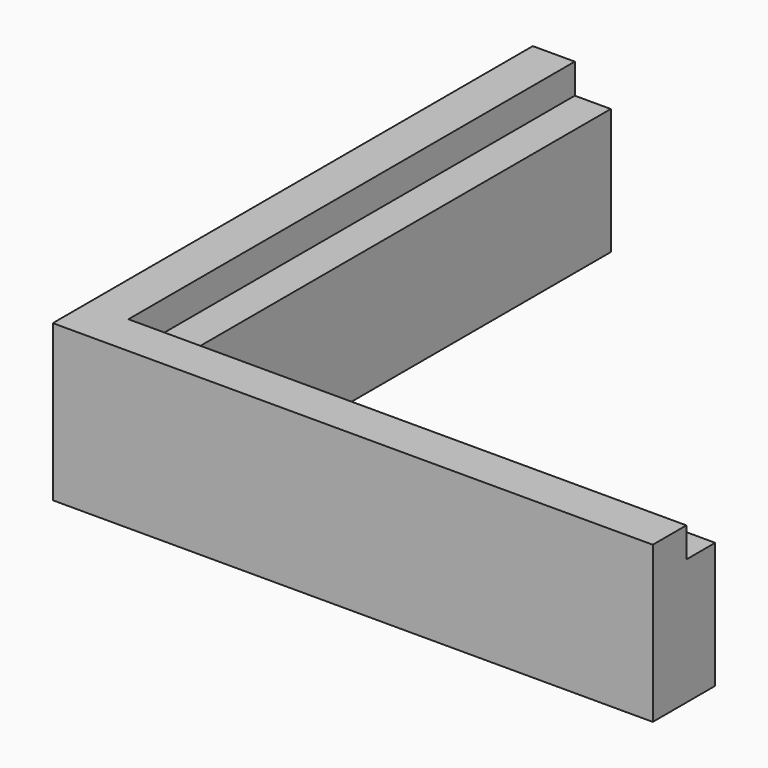
from build123d import *

# Parameters (mm, degrees)
F1_DEPTH = 13
F3_DEPTH = 2.5


with BuildPart() as f1:
    # F0 (on Top) → F1 (new body)
    with BuildSketch(Plane.XY):
        Polygon((0, 50), (0, 0), (50, 0), (50, 6.5), (6.5, 6.5), (6.5, 50), align=None)
    extrude(amount=F1_DEPTH)

    # F2 (on face) → F3 (cut)
    with BuildSketch(Plane.XY.offset(13)):
        Polygon((6.5, 6.5), (6.5, 50), (3.5, 50), (3.5, 3.5), (50, 3.5), (50, 6.5), align=None)
    extrude(amount=-F3_DEPTH, mode=Mode.SUBTRACT)


solid = f1.part
